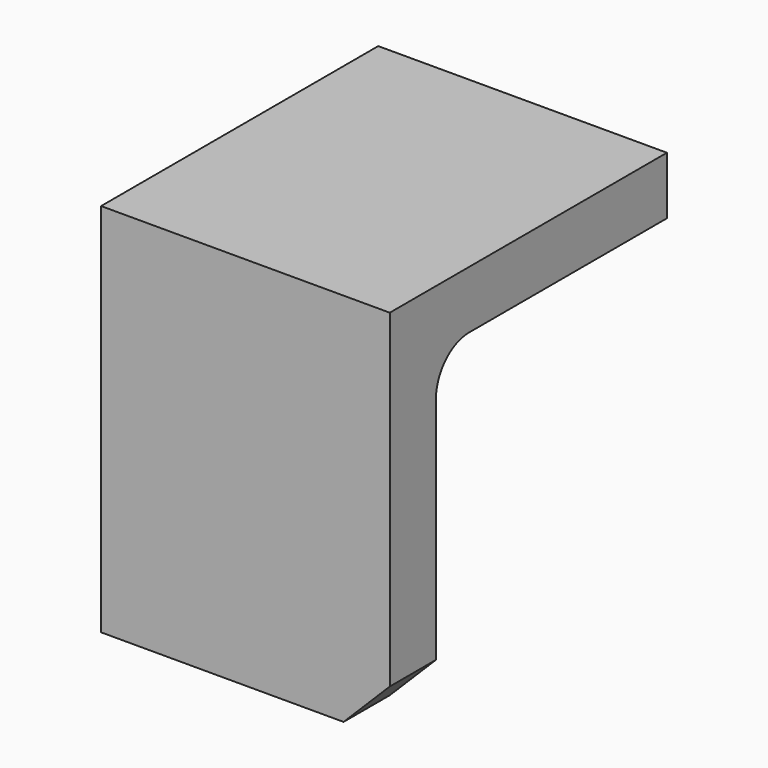
from build123d import *

# Parameters (mm, degrees)
F1_DEPTH = 15.875
F2_R     = 4.572
F3_SIZE  = 5.08


with BuildPart() as f1:
    # F0 (on Right) → F1 (new body, symmetric)
    with BuildSketch(Plane.YZ):
        Polygon((0, 41.275), (0, 0), (6.35, 0), (6.35, 34.925), (38.1, 34.925), (38.1, 41.275), align=None)
    extrude(amount=F1_DEPTH, both=True)

    # F2
    f2_edges = [f1.edges().sort_by_distance(p)[0] for p in [
        (0, 6.35, 34.925),
    ]]
    fillet(f2_edges, radius=F2_R)

    # F3
    f3_edges = [f1.edges().sort_by_distance(p)[0] for p in [
        (15.875, 3.175, 0),
    ]]
    chamfer(f3_edges, length=F3_SIZE)


solid = f1.part
